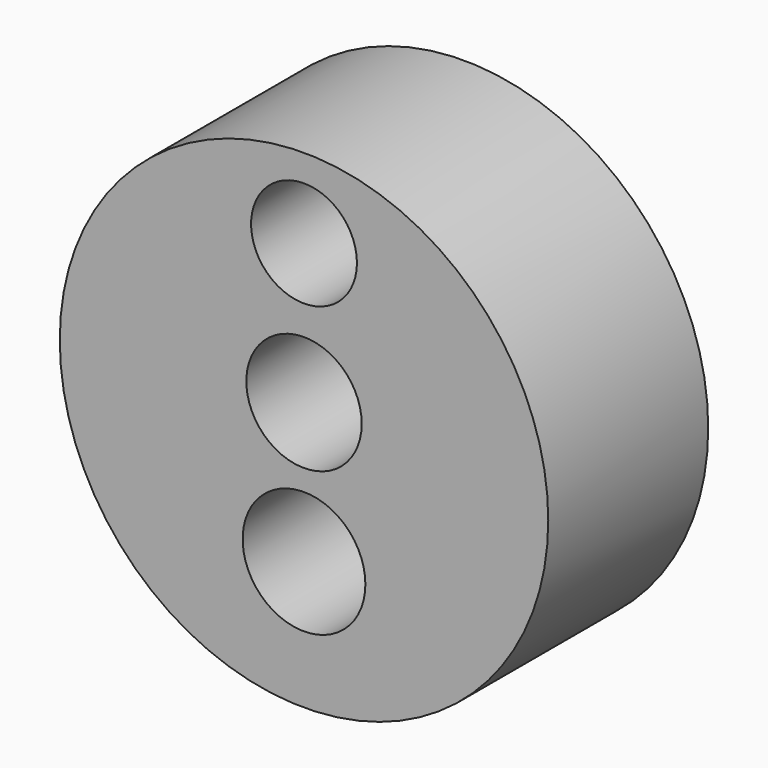
from build123d import *

# Parameters (mm, degrees)
F0_R     = 31.024924
F1_DEPTH = 25.4
F2_R     = 7.327338
F2_R_2   = 7.795092
F2_R_3   = 6.722248
F3_DEPTH = 25.401


with BuildPart() as f1:
    # F0 (on Front) → F1 (new body)
    with BuildSketch(Plane.XZ):
        with Locations((0, -3.088621)):
            Circle(F0_R)
    extrude(amount=F1_DEPTH)

    # F2 (on face) → F3 (cut, through all)
    with BuildSketch(Plane.XZ.offset(25.4)):
        Circle(F2_R)
        with Locations((0, -17.796343)):
            Circle(F2_R_2)
        with Locations((0, 17.796343)):
            Circle(F2_R_3)
    extrude(amount=-F3_DEPTH, mode=Mode.SUBTRACT)


solid = f1.part
